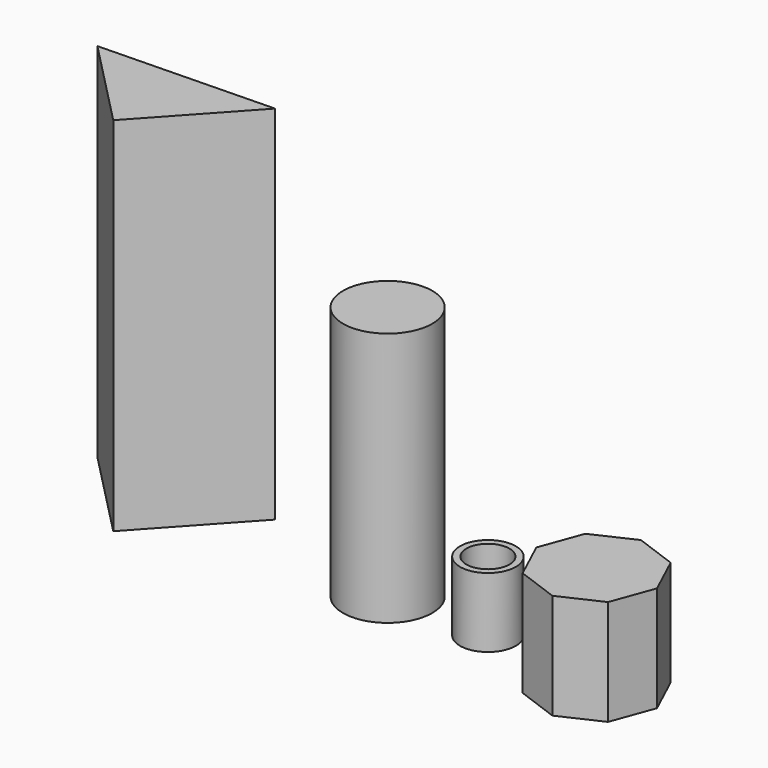
from build123d import *

# Parameters (mm, degrees)
F0_W     = 13.913841
F0_H     = 134.724088
F0_H_2   = 16.325258
F0_W_2   = 46.793818
F2_DEPTH = 229.129193
F3_R     = 96.928196
F4_DEPTH = 553.112326
F7_DEPTH = 785.856903


with BuildPart() as f1:
    # F0 (on Front) → F1 (revolve)
    with BuildSketch(Plane.XZ):
        with Locations((53.750738, 83.687302)):
            Rectangle(F0_W, F0_H)
        with Locations((53.750738, 8.162629)):
            Rectangle(F0_W, F0_H_2)
        with Locations((23.396909, 8.162629)):
            Rectangle(F0_W_2, F0_H_2)
    revolve(axis=Axis((0, 0, 96.930586), (0, 0, 1)))


with BuildPart() as f2:
    # F6 (on Top) → F2 (new body)
    with BuildSketch(Plane.XY):
        Polygon((357.282943, -120.545885), (390.691215, -29.309863), (349.80082, 58.826963), (258.564798, 92.235235), (170.427972, 51.34484), (137.0197, -39.891182), (177.910095, -128.028008), (269.146117, -161.43628), align=None)
    extrude(amount=F2_DEPTH)


with BuildPart() as f4:
    # F3 (on Top) → F4 (new body)
    with BuildSketch(Plane.XY):
        with Locations((-222.22206, 5.56156)):
            Circle(F3_R)
    extrude(amount=F4_DEPTH)


with BuildPart() as f7:
    # F5 (on Top) → F7 (new body)
    with BuildSketch(Plane.XY):
        Polygon((-926.562548, 97.959578), (-735.425472, -97.776711), (-547.895193, 106.969297), align=None)
    extrude(amount=F7_DEPTH)


solid = Compound([f1.part, f2.part, f4.part, f7.part])
